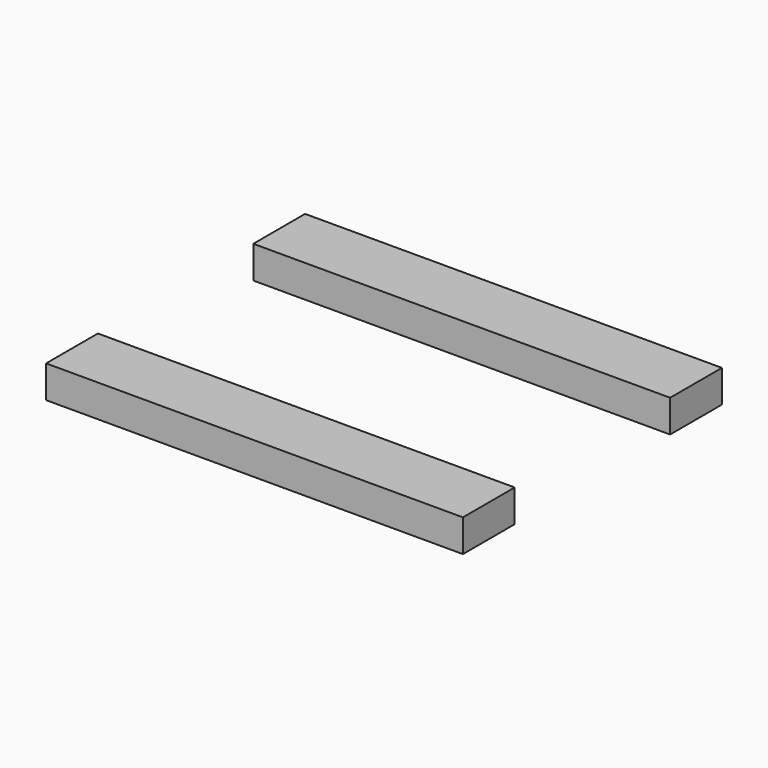
from build123d import *

# Parameters (mm, degrees)
F1_W          = 12.7
F1_H          = 6.35
F2_DEPTH      = 40.877067
F2_DEPTH_BACK = 40.877067


with BuildPart() as f2:
    # F1 (on Right) → F2 (new body, two sides)
    with BuildSketch(Plane.YZ) as f2_sk:
        with Locations((-25.4, 3.175)):
            Rectangle(F1_W, F1_H)
        with Locations((25.4, 3.175)):
            Rectangle(F1_W, F1_H)
    extrude(amount=F2_DEPTH)
    extrude(f2_sk.sketch, amount=-F2_DEPTH_BACK)


solid = f2.part
